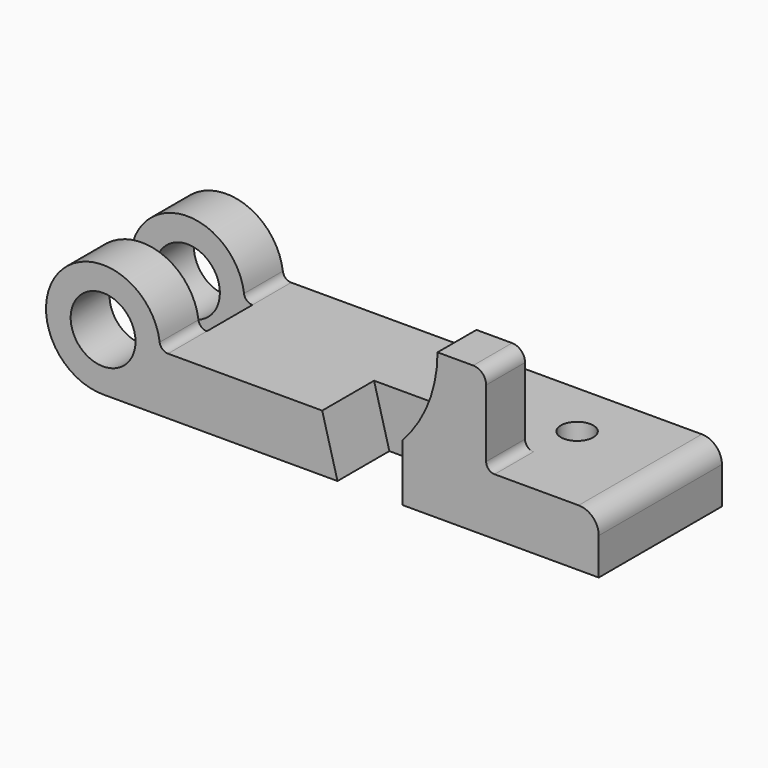
from build123d import *

# Parameters (mm, degrees)
F0_R     = 12.7
F1_DEPTH = 60.325
F2_DEPTH = 19.05
F3_DEPTH = 19.05
F4_DEPTH = 25.4
F5_R     = 6.35
F5_W     = 50.881216
F5_H     = 22.3266
F6_DEPTH = 57.151


with BuildPart() as f1:
    # F0 (on Front) → F1 (new body)
    with BuildSketch(Plane.XZ):
        with BuildLine():
            Line((-91.8464, 0), (0, 0))
            Line((0, 0), (-5.9944, 22.352))
            Line((-5.9944, 22.352), (-66.405792, 22.352))
            ThreePointArc((-66.405792, 22.352), (-68.585221, 23.173417), (-69.680326, 25.22899))
            ThreePointArc((-69.680326, 25.22899), (-108.638041, 37.105058), (-91.8464, 0))
        make_face()
        with Locations((-91.8464, 22.352)):
            Circle(F0_R, mode=Mode.SUBTRACT)
        with BuildLine():
            Line((25.4, 22.352), (25.4, 0))
            Line((25.4, 0), (102.362, 0))
            Line((102.362, 0), (102.362, 14.478))
            ThreePointArc((102.362, 14.478), (100.055759, 20.045759), (94.488, 22.352))
            Line((94.488, 22.352), (61.5442, 22.352))
            Line((61.5442, 22.352), (58.2422, 22.352))
            Line((58.2422, 22.352), (39.1922, 22.352))
            Line((39.1922, 22.352), (25.4, 22.352))
        make_face()
        Polygon((-5.9944, 22.352), (0, 0), (25.4, 0), (25.4, 22.352), align=None)
    extrude(amount=-F1_DEPTH)

    # F0 (on Front) → F2 (join)
    with BuildSketch(Plane.XZ):
        with BuildLine():
            ThreePointArc((39.1922, 57.15), (35.618015, 38.434358), (25.4, 22.352))
            Line((25.4, 22.352), (39.1922, 22.352))
            Line((39.1922, 22.352), (58.2422, 22.352))
            Line((58.2422, 22.352), (61.5442, 22.352))
            ThreePointArc((61.5442, 22.352), (59.209333, 23.319133), (58.2422, 25.654))
            Line((58.2422, 25.654), (58.2422, 52.07))
            ThreePointArc((58.2422, 52.07), (56.754302, 55.662102), (53.1622, 57.15))
            Line((53.1622, 57.15), (39.1922, 57.15))
        make_face()
    extrude(amount=-F2_DEPTH)

    # F0 (on Front) → F3 (cut)
    with BuildSketch(Plane.XZ):
        Polygon((-5.9944, 22.352), (0, 0), (25.4, 0), (25.4, 22.352), align=None)
    extrude(amount=-F3_DEPTH, mode=Mode.SUBTRACT)

    # F0 (on Front) → F4 (cut)
    with BuildSketch(Plane.XZ):
        Polygon((-5.9944, 22.352), (0, 0), (25.4, 0), (25.4, 22.352), align=None)
    extrude(amount=-F4_DEPTH, mode=Mode.SUBTRACT)

    # F5 (on Top) → F6 (cut, through all)
    with BuildSketch(Plane.XY):
        with Locations((63.5, 37.973)):
            Circle(F5_R)
        with Locations((-91.8464, 30.1625)):
            Rectangle(F5_W, F5_H)
    extrude(amount=F6_DEPTH, mode=Mode.SUBTRACT)


solid = f1.part
